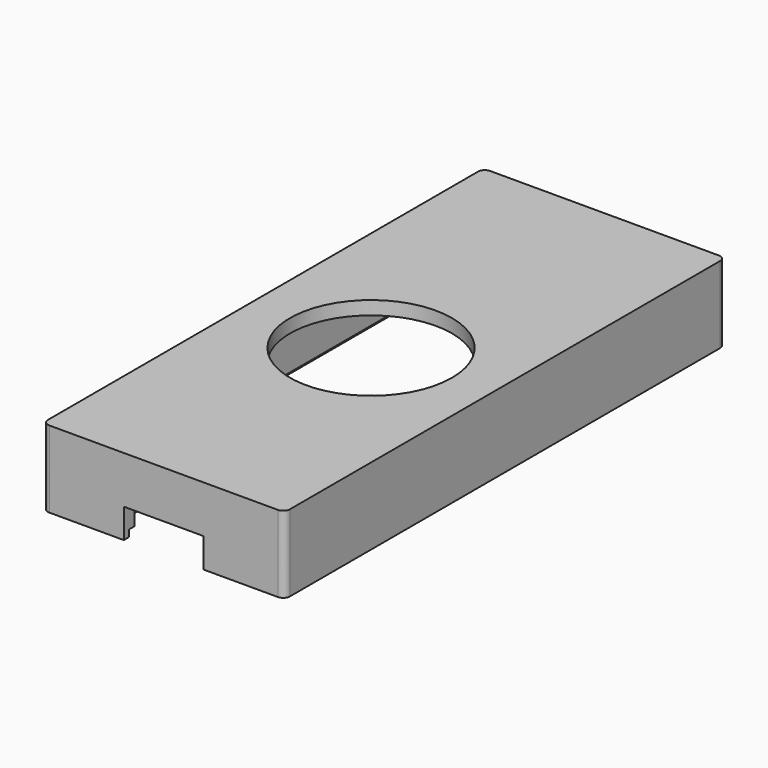
from build123d import *

# Parameters (mm, degrees)
SKETCH007_W     = 25.5
SKETCH007_H     = 62.15
PAD004_DEPTH    = 7.5
THICKNESS001_T  = 1.6
SKETCH008_R     = 9.6
POCKET002_DEPTH = 5
SKETCH009_W     = 27.1
SKETCH009_H     = 63.75
SKETCH009_W_2   = 25.5
SKETCH009_H_2   = 62.15
POCKET003_DEPTH = 0.8
FILLET001_R     = 0.8
SKETCH010_R     = 2.7
PAD005_DEPTH    = 7.5
SKETCH011_R     = 1.65
POCKET004_DEPTH = 3
SKETCH012_W     = 9.44
SKETCH012_H     = 3.495
POCKET005_DEPTH = 5


with BuildPart() as part:
    # Sketch007 (on Face1 of Binder001) → Pad004 (new body)
    with BuildSketch(Plane.XY.offset(1.51)):
        with Locations((12.5, 27.925)):
            Rectangle(SKETCH007_W, SKETCH007_H)
    extrude(amount=PAD004_DEPTH)

    # Thickness001
    thickness001_openings = [part.faces().sort_by_distance(p)[0] for p in [
        (12.5, 27.925, 1.51),
    ]]
    offset(amount=THICKNESS001_T, openings=thickness001_openings, kind=Kind.INTERSECTION)

    # Sketch008 (on Face11 of Thickness001) → Pocket002 (cut)
    with BuildSketch(Plane.XY.offset(10.61)):
        with Locations((12.5, 26)):
            Circle(SKETCH008_R)
    extrude(amount=-POCKET002_DEPTH, mode=Mode.SUBTRACT)

    # Sketch009 (on Face4 of Pocket002) → Pocket003 (cut)
    with BuildSketch(Plane(origin=(0, 0, 1.51), x_dir=(1, 0, 0), z_dir=(0, 0, -1))):
        with Locations((12.5, -27.925)):
            Rectangle(SKETCH009_W, SKETCH009_H)
        with Locations((12.5, -27.925)):
            Rectangle(SKETCH009_W_2, SKETCH009_H_2, mode=Mode.SUBTRACT)
    extrude(amount=-POCKET003_DEPTH, mode=Mode.SUBTRACT)

    # Fillet001
    fillet001_edges = [part.edges().sort_by_distance(p)[0] for p in [
        (26.85, -4.75, 6.06),
        (26.85, 60.6, 6.06),
        (-1.85, 60.6, 6.06),
        (-1.85, -4.75, 6.06),
    ]]
    fillet(fillet001_edges, radius=FILLET001_R)

    # Sketch010 (on Face21 of Fillet001) → Pad005 (join)
    with BuildSketch(Plane(origin=(0, 0, 9.01), x_dir=(1, 0, 0), z_dir=(0, 0, -1))):
        with Locations((2.5, -0.5)):
            Circle(SKETCH010_R)
        with Locations((22.5, -0.5)):
            Circle(SKETCH010_R)
        with Locations((2.5, -50)):
            Circle(SKETCH010_R)
        with Locations((22.5, -50)):
            Circle(SKETCH010_R)
    extrude(amount=PAD005_DEPTH)

    # Sketch011 (on Face27 of Pad005) → Pocket004 (cut)
    with BuildSketch(Plane(origin=(0, 0, 1.51), x_dir=(1, 0, 0), z_dir=(0, 0, -1))):
        with Locations((2.5, -0.5)):
            Circle(SKETCH011_R)
        with Locations((22.5, -0.5)):
            Circle(SKETCH011_R)
        with Locations((2.5, -50)):
            Circle(SKETCH011_R)
        with Locations((22.5, -50)):
            Circle(SKETCH011_R)
    extrude(amount=-POCKET004_DEPTH, mode=Mode.SUBTRACT)

    # Sketch012 (on Face20 of Pocket004) → Pocket005 (cut)
    with BuildSketch(Plane(origin=(0, -3.15, 0), x_dir=(-1, 0, 0), z_dir=(0, 1, 0))):
        with Locations((-12.5, 3.2575)):
            Rectangle(SKETCH012_W, SKETCH012_H)
    extrude(amount=-POCKET005_DEPTH, mode=Mode.SUBTRACT)


solid = part.part
